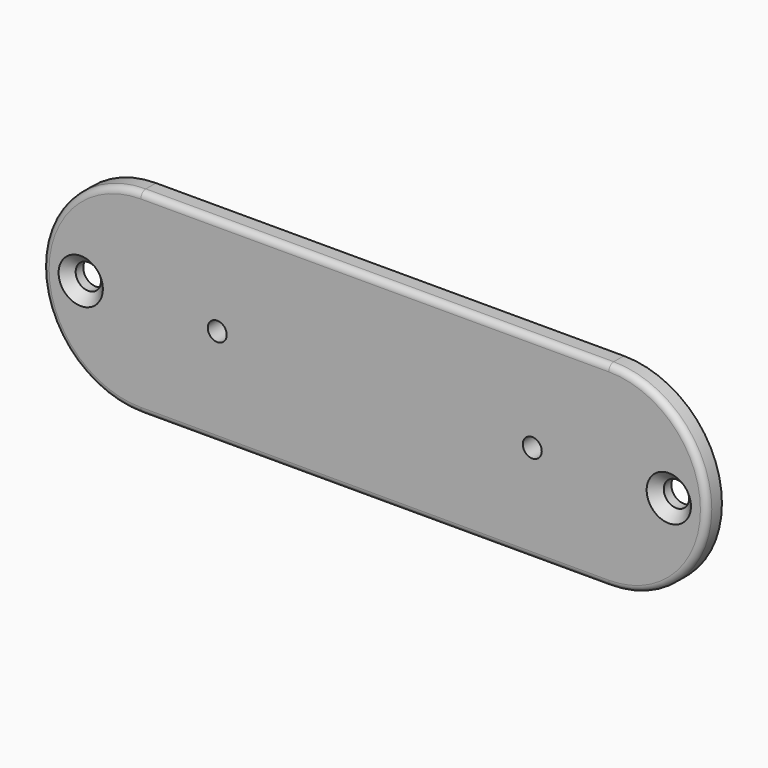
from build123d import *

# Parameters (mm, degrees)
F0_R     = 2
F0_R_2   = 1.5
F1_DEPTH = 3
F2_R     = 1
F3_SIZE  = 1.5


with BuildPart() as f1:
    # F0 (on Front) → F1 (new body)
    with BuildSketch(Plane.XZ):
        with BuildLine():
            ThreePointArc((37, -15.5), (52.5, 0), (37, 15.5))
            Line((37, 15.5), (-37, 15.5))
            ThreePointArc((-37, 15.5), (-52.5, 0), (-37, -15.5))
            Line((-37, -15.5), (37, -15.5))
        make_face()
        with Locations((-46.5, 0)):
            Circle(F0_R, mode=Mode.SUBTRACT)
        with Locations((-24.91, 0)):
            Circle(F0_R_2, mode=Mode.SUBTRACT)
        with Locations((24.91, 0)):
            Circle(F0_R_2, mode=Mode.SUBTRACT)
        with Locations((46.5, 0)):
            Circle(F0_R, mode=Mode.SUBTRACT)
    extrude(amount=F1_DEPTH)

    # F2
    f2_edges = [f1.edges().sort_by_distance(p)[0] for p in [
        (-52.5, -3, 0),
    ]]
    fillet(f2_edges, radius=F2_R)

    # F3
    f3_edges = [f1.edges().sort_by_distance(p)[0] for p in [
        (-48.5, -3, 0),
        (44.5, -3, 0),
    ]]
    chamfer(f3_edges, length=F3_SIZE)


solid = f1.part
